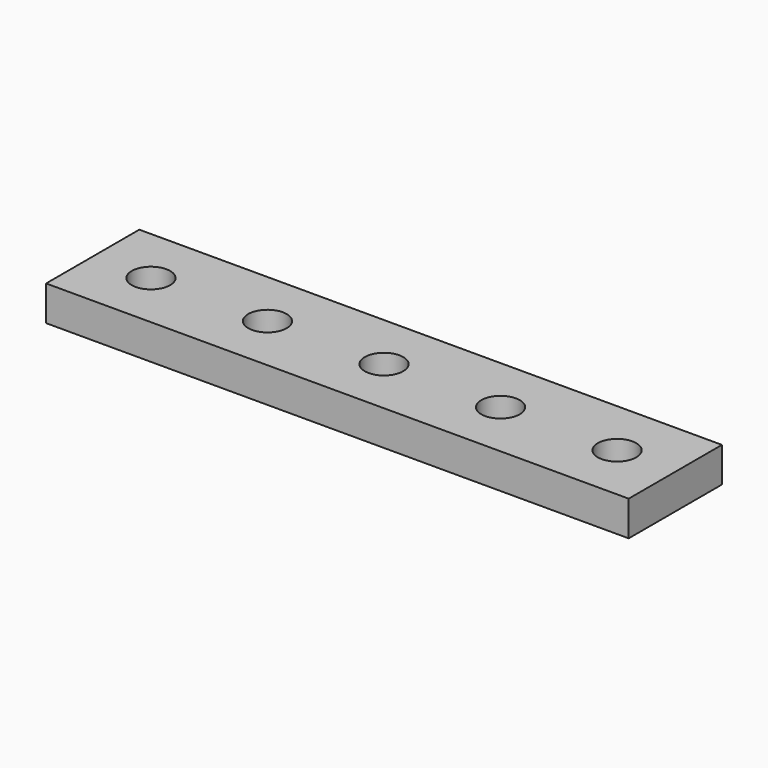
from build123d import *

# Parameters (mm, degrees)
SKETCH_W         = 50
SKETCH_H         = 10
SKETCH_R         = 1.65
EXTRUDE_DEPTH    = 3
EXTRUDE001_DEPTH = 3


with BuildPart() as extrude_body:
    # Sketch → Extrude (new body)
    with BuildSketch(Plane.XY):
        Rectangle(SKETCH_W, SKETCH_H)
        Circle(SKETCH_R, mode=Mode.SUBTRACT)
        with Locations((-10, 0)):
            Circle(SKETCH_R, mode=Mode.SUBTRACT)
        with Locations((-20, 0)):
            Circle(SKETCH_R, mode=Mode.SUBTRACT)
        with Locations((10, 0)):
            Circle(SKETCH_R, mode=Mode.SUBTRACT)
        with Locations((20, 0)):
            Circle(SKETCH_R, mode=Mode.SUBTRACT)
    extrude(amount=EXTRUDE_DEPTH)


with BuildPart() as extrude001:
    # Sketch → Extrude001 (new body)
    with BuildSketch(Plane.XY):
        Rectangle(SKETCH_W, SKETCH_H)
        Circle(SKETCH_R, mode=Mode.SUBTRACT)
        with Locations((-10, 0)):
            Circle(SKETCH_R, mode=Mode.SUBTRACT)
        with Locations((-20, 0)):
            Circle(SKETCH_R, mode=Mode.SUBTRACT)
        with Locations((10, 0)):
            Circle(SKETCH_R, mode=Mode.SUBTRACT)
        with Locations((20, 0)):
            Circle(SKETCH_R, mode=Mode.SUBTRACT)
    extrude(amount=EXTRUDE001_DEPTH)


solid = Compound([extrude_body.part, extrude001.part])
